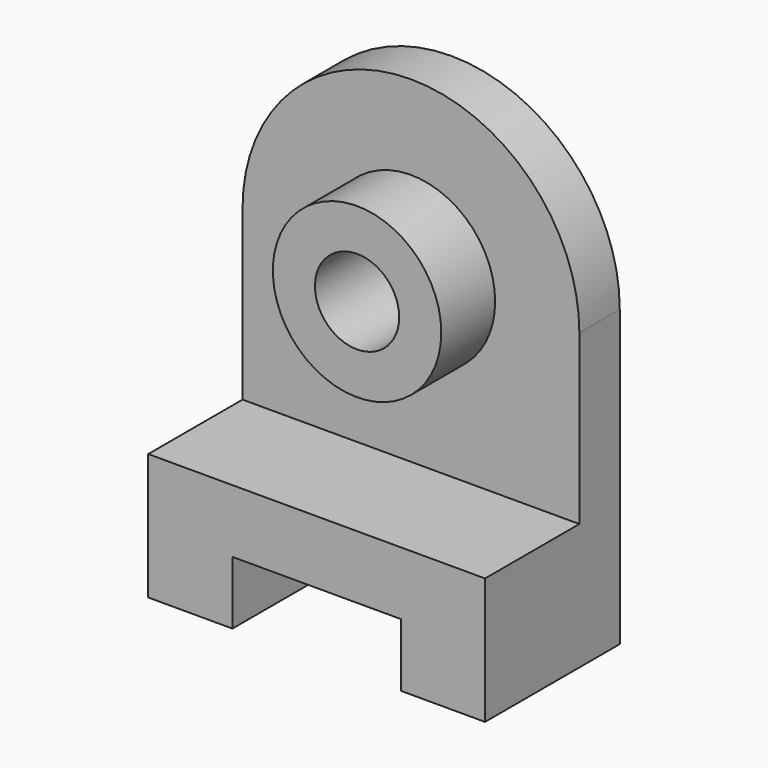
from build123d import *

# Parameters (mm, degrees)
F0_R     = 20
F0_R_2   = 10
F1_DEPTH = 28
F2_DEPTH = 12
F3_DEPTH = 40


with BuildPart() as f1:
    # F0 (on Front) → F1 (new body)
    with BuildSketch(Plane.XZ):
        with Locations((0, 35)):
            Circle(F0_R)
        with Locations((0, 35)):
            Circle(F0_R_2, mode=Mode.SUBTRACT)
    extrude(amount=F1_DEPTH)

    # F0 (on Front) → F2 (join)
    with BuildSketch(Plane.XZ):
        with BuildLine():
            ThreePointArc((40, 35), (0, 75), (-40, 35))
            Line((-40, 35), (-40, -5))
            Line((-40, -5), (40, -5))
            Line((40, -5), (40, 35))
        make_face()
        with Locations((0, 35)):
            Circle(F0_R, mode=Mode.SUBTRACT)
        Polygon((40, -5), (-40, -5), (-40, -35), (-20, -35.000057), (-20, -20.000057), (20, -20.000019), (20, -35.000019), (40, -35), align=None)
    extrude(amount=F2_DEPTH)

    # F0 (on Front) → F3 (join)
    with BuildSketch(Plane.XZ):
        Polygon((40, -5), (-40, -5), (-40, -35), (-20, -35.000057), (-20, -20.000057), (20, -20.000019), (20, -35.000019), (40, -35), align=None)
    extrude(amount=F3_DEPTH)


solid = f1.part
